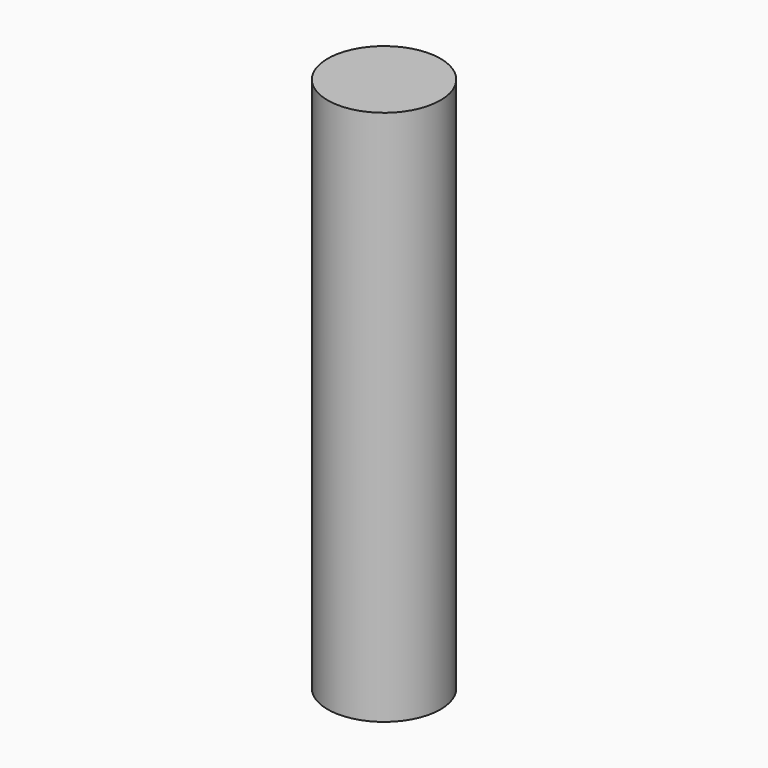
from build123d import *

# Parameters (mm, degrees)
SKETCH_R  = 6
PAD_DEPTH = 57


with BuildPart() as part:
    # Sketch → Pad (new body)
    with BuildSketch(Plane.XY):
        Circle(SKETCH_R)
    extrude(amount=PAD_DEPTH)


solid = part.part
